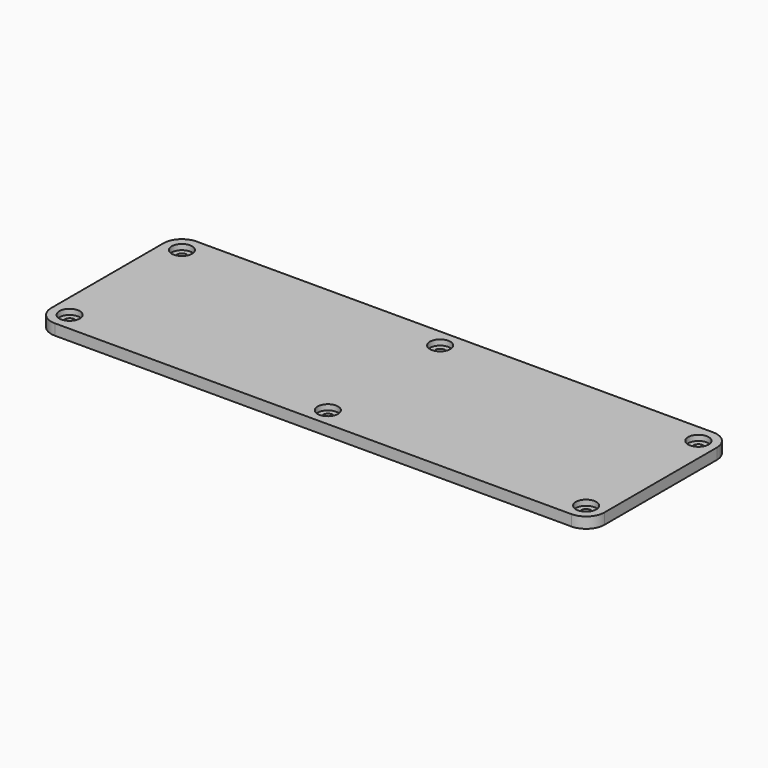
from build123d import *

# Parameters (mm, degrees)
F0_R     = 3.75
F1_DEPTH = 4
F0_R_2   = 1.75
F2_DEPTH = 2


with BuildPart() as f1:
    # F0 (on Top) → F1 (new body)
    with BuildSketch(Plane.XY):
        with BuildLine():
            Line((-94.75, -32.5), (94.75, -32.5))
            ThreePointArc((94.75, -32.5), (99.522971, -30.522971), (101.5, -25.75))
            Line((101.5, -25.75), (101.5, 25.75))
            ThreePointArc((101.5, 25.75), (99.522971, 30.522971), (94.75, 32.5))
            Line((94.75, 32.5), (-94.75, 32.5))
            ThreePointArc((-94.75, 32.5), (-99.522971, 30.522971), (-101.5, 25.75))
            Line((-101.5, 25.75), (-101.5, -25.75))
            ThreePointArc((-101.5, -25.75), (-99.522971, -30.522971), (-94.75, -32.5))
        make_face()
        with Locations((-94.75, -25.75)):
            Circle(F0_R, mode=Mode.SUBTRACT)
        with Locations((0, -25.75)):
            Circle(F0_R, mode=Mode.SUBTRACT)
        with Locations((94.75, -25.75)):
            Circle(F0_R, mode=Mode.SUBTRACT)
        with Locations((-94.75, 25.75)):
            Circle(F0_R, mode=Mode.SUBTRACT)
        with Locations((0, 25.75)):
            Circle(F0_R, mode=Mode.SUBTRACT)
        with Locations((94.75, 25.75)):
            Circle(F0_R, mode=Mode.SUBTRACT)
    extrude(amount=F1_DEPTH)

    # F0 (on Top) → F2 (join)
    with BuildSketch(Plane.XY):
        with Locations((-94.75, 25.75)):
            Circle(F0_R)
        with Locations((-94.75, 25.75)):
            Circle(F0_R_2, mode=Mode.SUBTRACT)
        with Locations((0, 25.75)):
            Circle(F0_R)
        with Locations((0, 25.75)):
            Circle(F0_R_2, mode=Mode.SUBTRACT)
        with Locations((-94.75, -25.75)):
            Circle(F0_R)
        with Locations((-94.75, -25.75)):
            Circle(F0_R_2, mode=Mode.SUBTRACT)
        with Locations((0, -25.75)):
            Circle(F0_R)
        with Locations((0, -25.75)):
            Circle(F0_R_2, mode=Mode.SUBTRACT)
        with Locations((94.75, -25.75)):
            Circle(F0_R)
        with Locations((94.75, -25.75)):
            Circle(F0_R_2, mode=Mode.SUBTRACT)
        with Locations((94.75, 25.75)):
            Circle(F0_R)
        with Locations((94.75, 25.75)):
            Circle(F0_R_2, mode=Mode.SUBTRACT)
    extrude(amount=F2_DEPTH)


solid = f1.part
